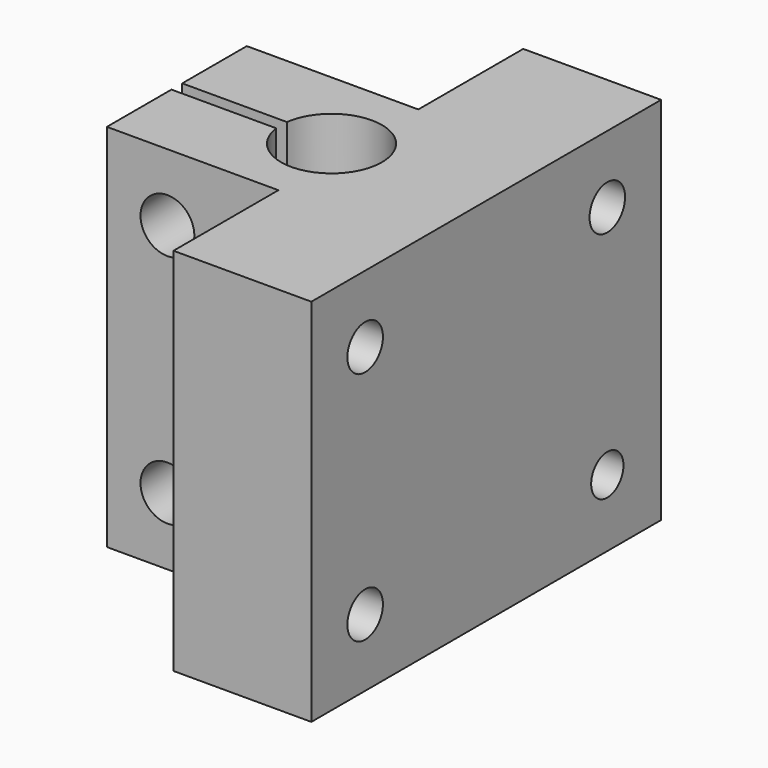
from build123d import *

# Parameters (mm, degrees)
F1_DEPTH = 55
F2_R     = 4
F3_DEPTH = 60
F4_R     = 3.3
F4_R_2   = 3
F5_DEPTH = 14.5
F6_R     = 5
F7_DEPTH = 6
F8_R     = 5
F9_DEPTH = 6


with BuildPart() as f1:
    # F0 (on Top) → F1 (new body)
    with BuildSketch(Plane.XY):
        with BuildLine():
            Line((22.920288, 15.639662), (22.920288, 25.639662))
            Line((22.920288, 25.639662), (8.420288, 25.639662))
            Line((8.420288, 25.639662), (2.420288, 25.639662))
            Line((2.420288, 25.639662), (2.420288, 6.139662))
            Line((2.420288, 6.139662), (-23.079712, 6.139662))
            Line((-23.079712, 6.139662), (-23.079712, -5.860338))
            Line((-23.079712, -5.860338), (-7.512746, -5.860338))
            ThreePointArc((-7.512746, -5.860338), (7.420288, -6.860338), (-7.512746, -7.860338))
            Line((-7.512746, -7.860338), (-23.079712, -7.860338))
            Line((-23.079712, -7.860338), (-23.079712, -19.860338))
            Line((-23.079712, -19.860338), (-0.079712, -19.860338))
            Line((-0.079712, -19.860338), (2.420288, -19.860338))
            Line((2.420288, -19.860338), (2.420288, -39.360338))
            Line((2.420288, -39.360338), (22.920288, -39.360338))
            Line((22.920288, -39.360338), (22.920288, -29.360338))
            Line((22.920288, -29.360338), (22.920288, 15.639662))
        make_face()
    extrude(amount=F1_DEPTH)

    # F2 (on face) → F3 (cut)
    with BuildSketch(Plane(origin=(0, 6.139662, 0), x_dir=(-1, 0, 0), z_dir=(0, 1, 0))):
        with Locations((14.079712, 10)):
            Circle(F2_R)
        with Locations((14.079712, 45)):
            Circle(F2_R)
    extrude(amount=-F3_DEPTH, mode=Mode.SUBTRACT)

    # F4 (on face) → F5 (cut)
    with BuildSketch(Plane.YZ.offset(22.920288)):
        with Locations((-29.360338, 10)):
            Circle(F4_R)
        with Locations((15.639662, 10)):
            Circle(F4_R_2)
        with Locations((15.639662, 45)):
            Circle(F4_R)
        with Locations((-29.360338, 45)):
            Circle(F4_R)
    extrude(amount=-F5_DEPTH, mode=Mode.SUBTRACT)

    # F6 (on face) → F7 (cut)
    with BuildSketch(Plane(origin=(2.420288, 0, 0), x_dir=(0, -1, 0), z_dir=(-1, 0, 0))):
        with Locations((29.360338, 45)):
            Circle(F6_R)
        with Locations((29.360338, 10)):
            Circle(F6_R)
    extrude(amount=-F7_DEPTH, mode=Mode.SUBTRACT)

    # F8 (on face) → F9 (cut)
    with BuildSketch(Plane(origin=(2.420288, 0, 0), x_dir=(0, -1, 0), z_dir=(-1, 0, 0))):
        with Locations((-15.639662, 45)):
            Circle(F8_R)
        with Locations((-15.639662, 10)):
            Circle(F8_R)
    extrude(amount=-F9_DEPTH, mode=Mode.SUBTRACT)


solid = f1.part
